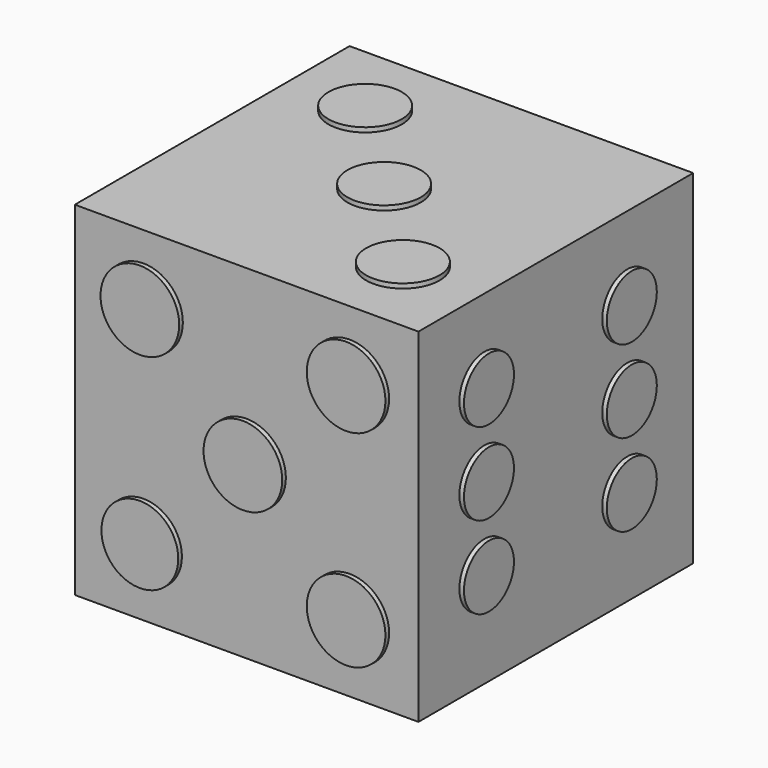
from build123d import *

# Parameters (mm, degrees)
F0_W      = 19.06034071
F0_H      = 19.06034071
F1_DEPTH  = 9.525
F2_R      = 1.8892312699
F8_DEPTH  = 0.254
F3_R      = 1.7327827713
F9_DEPTH  = 0.254
F4_R      = 2.1821211745
F10_DEPTH = 0.254
F5_R      = 2.0368058648
F11_DEPTH = 0.254
F6_R      = 1.8590976902
F12_DEPTH = 0.254
F7_R      = 2.1308019233
F7_R_2    = 2.1821211745
F13_DEPTH = 0.254


with BuildPart() as f1:
    # F0 (on Front) → F1 (new body, symmetric)
    with BuildSketch(Plane.XZ):
        with Locations((11.5190818906, 14.3221947365)):
            Rectangle(F0_W, F0_H)
    extrude(amount=F1_DEPTH, both=True)

    # F2 (on face) → F8 (join)
    with BuildSketch(Plane(origin=(1.9889115356, 0, 0), x_dir=(0, -1, 0), z_dir=(-1, 0, 0))):
        with Locations((0, 14.4774196669)):
            Circle(F2_R)
    extrude(amount=F8_DEPTH)

    # F3 (on face) → F9 (join)
    with BuildSketch(Plane.YZ.offset(21.0492522456)):
        with Locations((-4.953, 19.2803650914)):
            Circle(F3_R)
        with Locations((4.953, 19.2803650914)):
            Circle(F3_R)
        with Locations((4.953, 10.1363650914)):
            Circle(F3_R)
        with Locations((-4.953, 10.1363650914)):
            Circle(F3_R)
        with Locations((-4.953, 14.7083650914)):
            Circle(F3_R)
        with Locations((4.953, 14.7083650914)):
            Circle(F3_R)
    extrude(amount=F9_DEPTH)

    # F4 (on face) → F10 (join)
    with BuildSketch(Plane(origin=(0, 9.525, 0), x_dir=(-1, 0, 0), z_dir=(0, 1, 0))):
        with Locations((-16.2232522456, 19.0263650914)):
            Circle(F4_R)
        with Locations((-6.8149115356, 9.6180243815)):
            Circle(F4_R)
    extrude(amount=F10_DEPTH)

    # F5 (on face) → F11 (join)
    with BuildSketch(Plane.XY.offset(23.8523650914)):
        with Locations((16.7312522456, -5.207)):
            Circle(F5_R)
        with Locations((11.5242522456, 0)):
            Circle(F5_R)
        with Locations((6.3069115356, 5.207)):
            Circle(F5_R)
    extrude(amount=F11_DEPTH)

    # F6 (on face) → F12 (join)
    with BuildSketch(Plane(origin=(0, 0, 4.7920243815), x_dir=(1, 0, 0), z_dir=(0, 0, -1))):
        with Locations((5.7989115356, 5.715)):
            Circle(F6_R)
        with Locations((17.2392522456, 5.715)):
            Circle(F6_R)
        with Locations((5.7989115356, -5.715)):
            Circle(F6_R)
        with Locations((17.2392522456, -5.715)):
            Circle(F6_R)
    extrude(amount=F12_DEPTH)

    # F7 (on face) → F13 (join)
    with BuildSketch(Plane.XZ.offset(9.525)):
        with Locations((5.7989115356, 8.6020243815)):
            Circle(F7_R)
        with Locations((17.2392522456, 20.0423650914)):
            Circle(F7_R_2)
        with Locations((5.7989115356, 20.0423650914)):
            Circle(F7_R_2)
        with Locations((17.2392522456, 8.6020243815)):
            Circle(F7_R_2)
        with Locations((11.5139115356, 14.3170229782)):
            Circle(F7_R_2)
    extrude(amount=F13_DEPTH)


solid = f1.part
